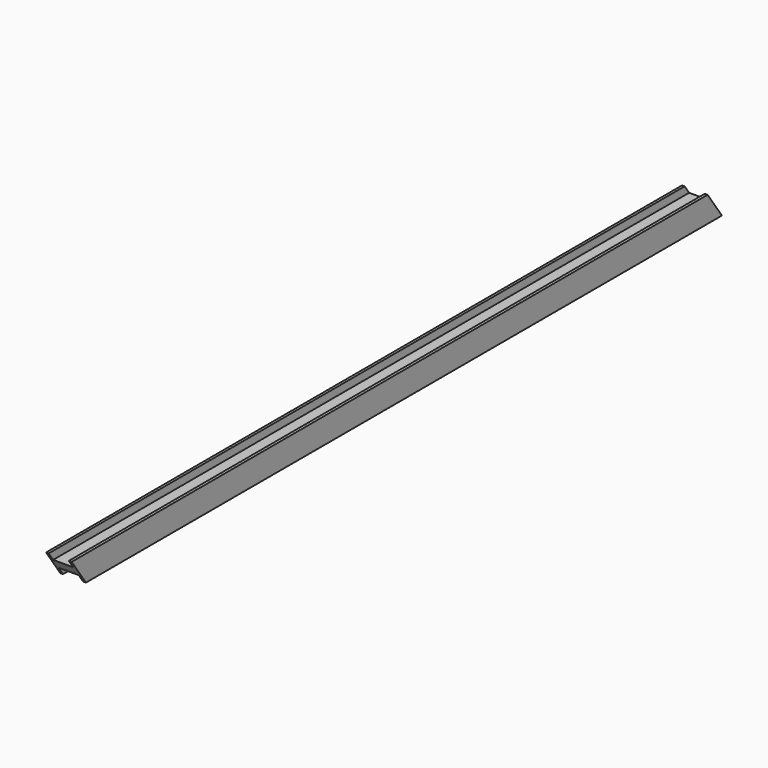
from build123d import *

# Parameters (mm, degrees)
F1_DEPTH = 847.725
F3_DEPTH = 45.721


with BuildPart() as f1:
    # F0 (on Front) → F1 (new body, symmetric)
    with BuildSketch(Plane.XZ):
        Polygon((22.86, -22.86), (22.86, 22.86), (17.803407, 22.86), (17.803407, 8.636), (-18.224793, 8.636), (-18.224793, 22.86), (-22.86, 22.86), (-22.86, -22.86), (-18.224793, -22.86), (-18.224793, -8.636), (17.803407, -8.636), (17.803407, -22.86), align=None)
    extrude(amount=F1_DEPTH, both=True)

    # F2 (on face) → F3 (cut, through all)
    with BuildSketch(Plane.YZ.offset(22.86)):
        Polygon((-574.907109, -22.86), (-847.725, 366.764328), (-847.725, -22.86), align=None)
        Polygon((815.711511, 22.86), (847.725, -22.86), (847.725, 22.86), align=None)
    extrude(amount=-F3_DEPTH, mode=Mode.SUBTRACT)


solid = f1.part
